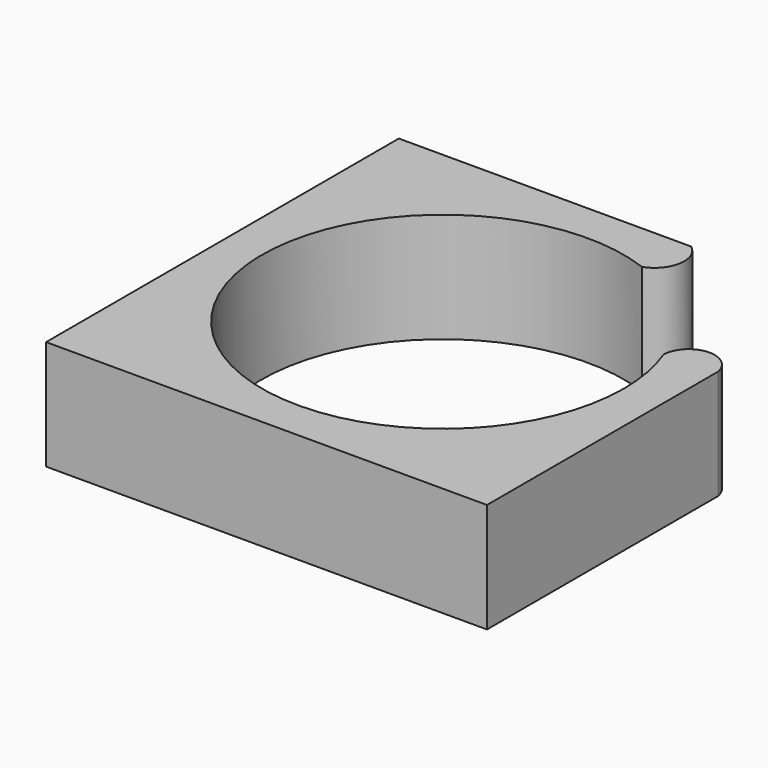
from build123d import *

# Parameters (mm, degrees)
F1_DEPTH = 10.5


with BuildPart() as f1:
    # F0 (on Top) → F1 (new body)
    with BuildSketch(Plane.XY):
        with BuildLine():
            ThreePointArc((6.061135, 16.244531), (7.933277, 18.430479), (6.899406, 21.116441))
            Line((6.899406, 21.116441), (-21.116441, 21.116441))
            Line((-21.116441, 21.116441), (-21.116441, -21.116441))
            Line((-21.116441, -21.116441), (21.116441, -21.116441))
            Line((21.116441, -21.116441), (21.116441, 6.573539))
            ThreePointArc((21.116441, 6.573539), (18.485123, 8.558267), (16.1976, 6.18546))
            ThreePointArc((16.1976, 6.18546), (17.050859, 3.144896), (17.338459, 0))
            ThreePointArc((17.338459, 0), (-14.242768, -9.887654), (6.061135, 16.244531))
        make_face()
    extrude(amount=F1_DEPTH)


solid = f1.part
